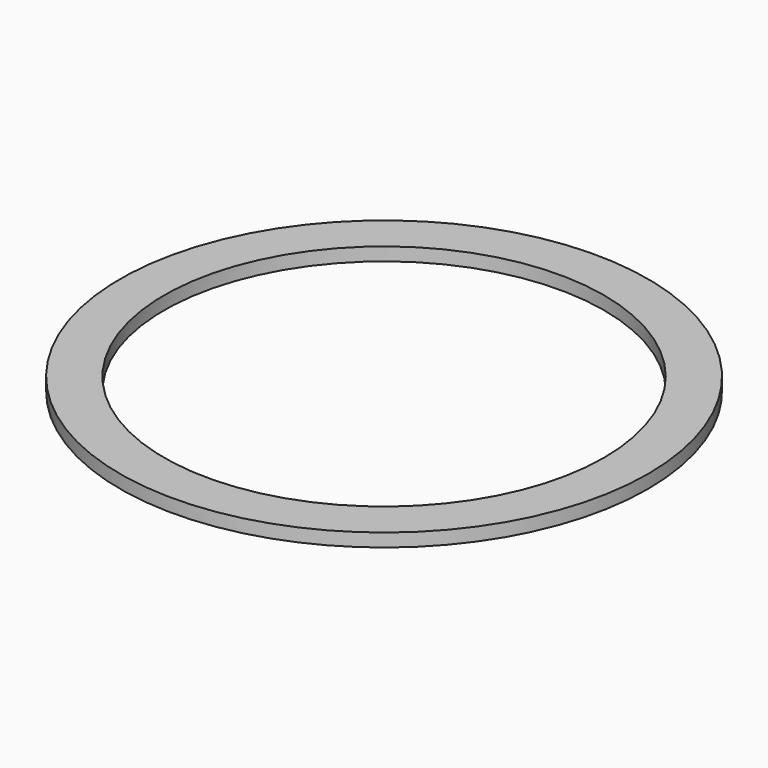
from build123d import *

# Parameters (mm, degrees)
SKETCH_R   = 30
SKETCH_R_2 = 25
PAD_DEPTH  = 1.5


with BuildPart() as part:
    # Sketch → Pad (new body)
    with BuildSketch(Plane.XY):
        Circle(SKETCH_R)
        Circle(SKETCH_R_2, mode=Mode.SUBTRACT)
    extrude(amount=PAD_DEPTH)


solid = part.part
